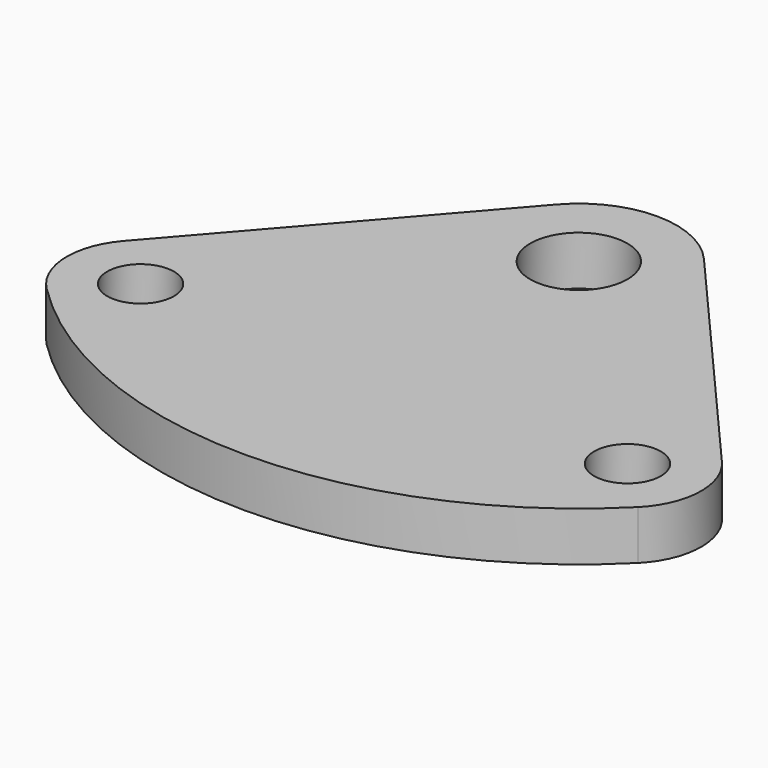
from build123d import *

# Parameters (mm, degrees)
F0_R     = 2.15265
F0_R_2   = 3.1369
F1_DEPTH = 3.175


with BuildPart() as f1:
    # F0 (on Top) → F1 (new body)
    with BuildSketch(Plane.XY):
        with BuildLine():
            Line((19.305298, -12.586502), (4.763557, 4.141088))
            ThreePointArc((4.763557, 4.141088), (0, 6.3119), (-4.763557, 4.141088))
            Line((-4.763557, 4.141088), (-19.305298, -12.586502))
            ThreePointArc((-19.305298, -12.586502), (-20.470666, -15.87722), (-19.078661, -19.078661))
            ThreePointArc((-19.078661, -19.078661), (0, -26.981301), (19.078661, -19.078661))
            ThreePointArc((19.078661, -19.078661), (20.470666, -15.87722), (19.305298, -12.586502))
        make_face()
        with Locations((-15.711065, -15.711065)):
            Circle(F0_R, mode=Mode.SUBTRACT)
        with Locations((15.711065, -15.711065)):
            Circle(F0_R, mode=Mode.SUBTRACT)
        Circle(F0_R_2, mode=Mode.SUBTRACT)
    extrude(amount=F1_DEPTH)


solid = f1.part
